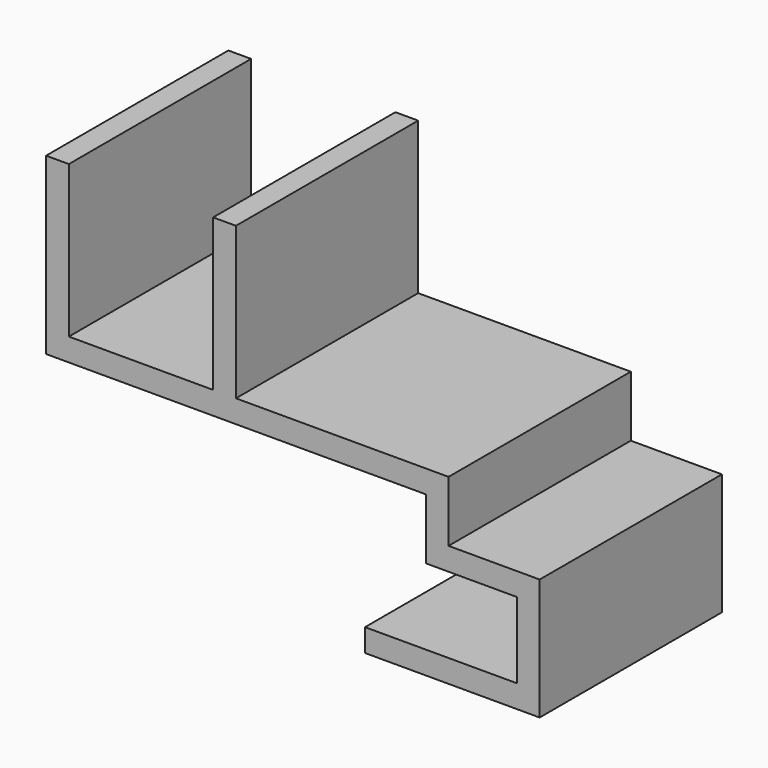
from build123d import *

# Parameters (mm, degrees)
F0_W          = 3
F0_H          = 3
F0_W_2        = 19
F0_H_2        = 20
F0_W_3        = 25
F0_W_4        = 9
F0_H_3        = 10
F1_DEPTH      = 15
F1_DEPTH_BACK = 15


with BuildPart() as f1:
    # F0 (on Front) → F1 (new body, two sides)
    with BuildSketch(Plane.XZ) as f1_sk:
        with Locations((1.5, 1.5)):
            Rectangle(F0_W, F0_H)
        with Locations((12.5, 1.5)):
            Rectangle(F0_W_2, F0_H)
        with Locations((1.5, 13)):
            Rectangle(F0_W, F0_H_2)
        with Locations((23.5, 1.5)):
            Rectangle(F0_W, F0_H)
        with Locations((23.5, 13)):
            Rectangle(F0_W, F0_H_2)
        with Locations((37.5, 1.5)):
            Rectangle(F0_W_3, F0_H)
        Polygon((50, 3), (50, 0), (50, -5), (53, -5), (53, 3), align=None)
        with Locations((51.5, -6.5)):
            Rectangle(F0_W, F0_H)
        with Locations((57.5, -6.5)):
            Rectangle(F0_W_4, F0_H)
        with Locations((63.5, -6.5)):
            Rectangle(F0_W, F0_H)
        with Locations((63.5, -13)):
            Rectangle(F0_W, F0_H_3)
        Polygon((65, -18), (62, -18), (42, -18), (42, -21), (65, -21), align=None)
    extrude(amount=F1_DEPTH)
    extrude(f1_sk.sketch, amount=-F1_DEPTH_BACK)


solid = f1.part
